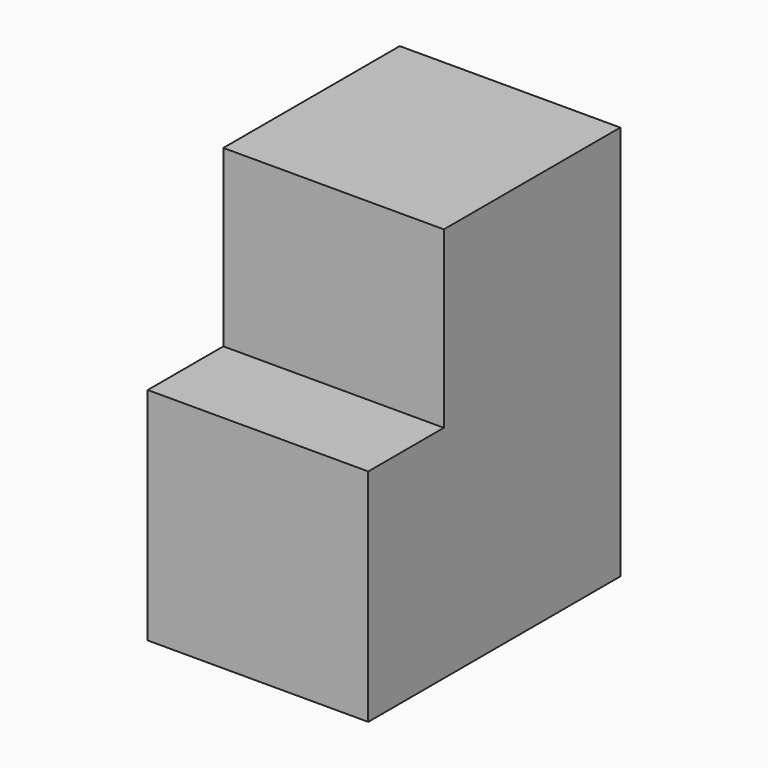
from build123d import *

# Parameters (mm, degrees)
F0_W     = 7
F0_H     = 6
F2_DEPTH = 7
F1_W     = 7
F1_H     = 7
F3_DEPTH = 10


with BuildPart() as f2:
    # F0 (on Front) → F2 (new body)
    with BuildSketch(Plane.XZ):
        Rectangle(F0_W, F0_H)
    extrude(amount=F2_DEPTH)

    # F1 (on Front) → F3 (join)
    with BuildSketch(Plane.XZ):
        with Locations((0, -6.045629)):
            Rectangle(F1_W, F1_H)
    extrude(amount=F3_DEPTH)


solid = f2.part
